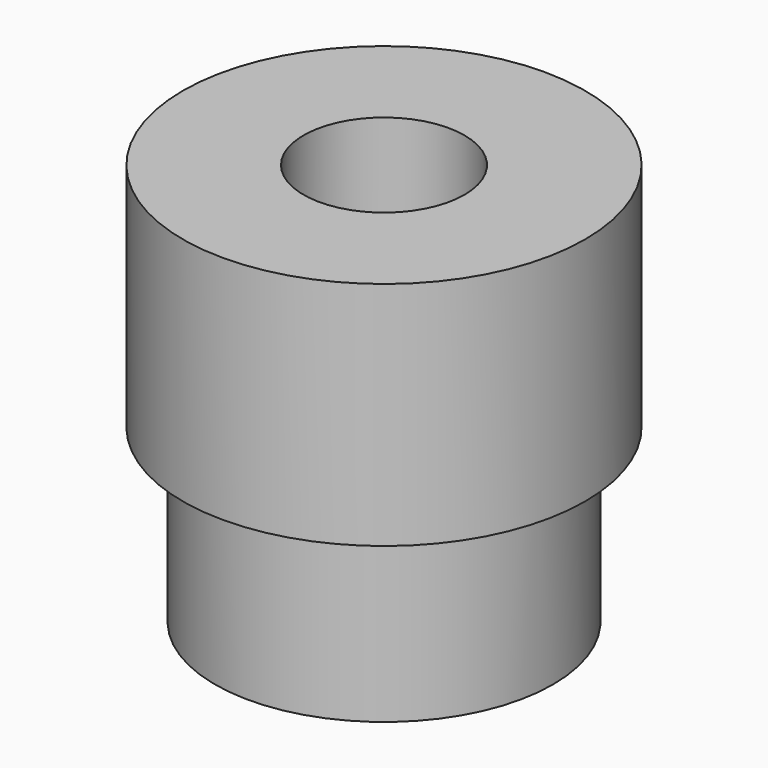
from build123d import *

# Parameters (mm, degrees)
F0_R     = 7.5
F0_R_2   = 3
F1_DEPTH = 15
F2_R     = 7.5
F2_R_2   = 6.3
F3_DEPTH = 6.4


with BuildPart() as f1:
    # F0 (on Top) → F1 (new body)
    with BuildSketch(Plane.XY):
        Circle(F0_R)
        Circle(F0_R_2, mode=Mode.SUBTRACT)
    extrude(amount=F1_DEPTH)

    # F2 (on Top) → F3 (cut)
    with BuildSketch(Plane.XY):
        Circle(F2_R)
        Circle(F2_R_2, mode=Mode.SUBTRACT)
    extrude(amount=F3_DEPTH, mode=Mode.SUBTRACT)


solid = f1.part
